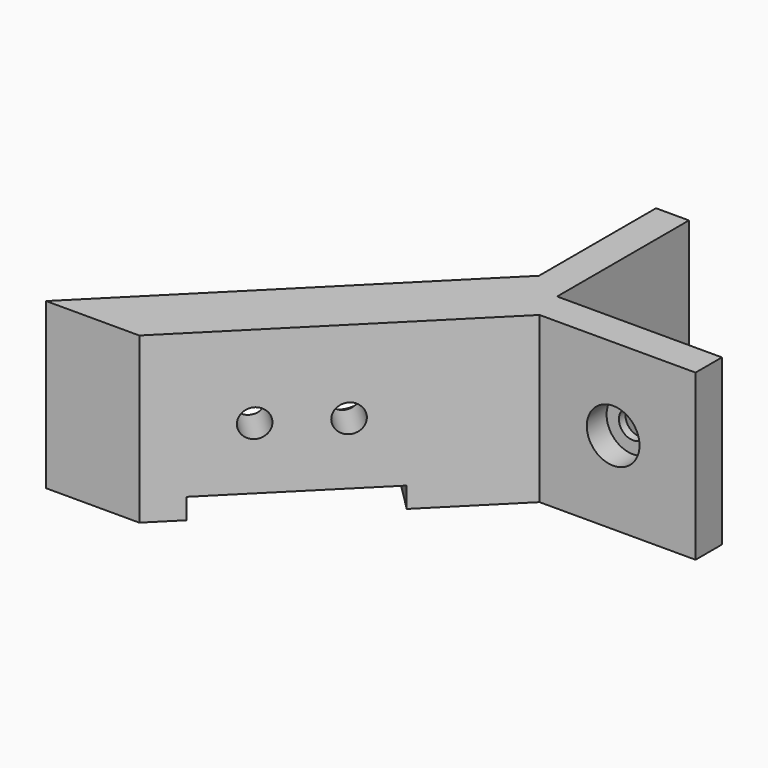
from build123d import *

# Parameters (mm, degrees)
PAD_DEPTH       = 20
SKETCH001_R     = 1.7
POCKET_DEPTH    = 5
SKETCH002_R     = 1.7
POCKET001_DEPTH = 5
SKETCH003_R     = 1.7
SKETCH003_W     = 21
SKETCH003_H     = 2.5
POCKET002_DEPTH = 9
SKETCH004_R     = 3.2
POCKET003_DEPTH = 3
SKETCH005_R     = 3.2
POCKET004_DEPTH = 3
SKETCH006_R     = 3.2
POCKET005_DEPTH = 3


with BuildPart() as part:
    # Sketch → Pad (new body)
    with BuildSketch(Plane.XY):
        Polygon((-2, 22), (2, 22), (2, 2), (22, 2), (22, -2), (3.065041, -2), (-23.92031, -28.985351), (-35.234019, -28.985351), (-2, 4.248668), align=None)
    extrude(amount=PAD_DEPTH)

    # Sketch001 (on Face2 of Pad) → Pocket (cut)
    with BuildSketch(Plane(origin=(-2, 0, 0), x_dir=(0, -1, 0), z_dir=(-1, 0, 0))):
        with Locations((-12, 10)):
            Circle(SKETCH001_R)
    extrude(amount=-POCKET_DEPTH, mode=Mode.SUBTRACT)

    # Sketch002 (on Face12 of Pocket) → Pocket001 (cut)
    with BuildSketch(Plane.XZ.offset(2)):
        with Locations((12, 10)):
            Circle(SKETCH002_R)
    extrude(amount=-POCKET001_DEPTH, mode=Mode.SUBTRACT)

    # Sketch003 (on Face1 of Pocket001) → Pocket002 (cut)
    with BuildSketch(Plane(origin=(-3.124334, 3.124334, 0), x_dir=(-0.707107, -0.707107, 0), z_dir=(-0.707107, 0.707107, 0))):
        with Locations((17.409952, 10)):
            Circle(SKETCH003_R)
        with Locations((26.409952, 10)):
            Circle(SKETCH003_R)
        with Locations((22.409952, 1.25)):
            Rectangle(SKETCH003_W, SKETCH003_H)
    extrude(amount=-POCKET002_DEPTH, mode=Mode.SUBTRACT)

    # Sketch004 (on Face7 of Pocket002) → Pocket003 (cut)
    with BuildSketch(Plane(origin=(-2, 0, 0), x_dir=(0, -1, 0), z_dir=(-1, 0, 0))):
        with Locations((-12, 10)):
            Circle(SKETCH004_R)
    extrude(amount=-POCKET003_DEPTH, mode=Mode.SUBTRACT)

    # Sketch005 (on Face13 of Pocket003) → Pocket004 (cut)
    with BuildSketch(Plane.XZ.offset(2)):
        with Locations((12, 10)):
            Circle(SKETCH005_R)
    extrude(amount=-POCKET004_DEPTH, mode=Mode.SUBTRACT)

    # Sketch006 (on Face1 of Pocket004) → Pocket005 (cut)
    with BuildSketch(Plane(origin=(-3.124334, 3.124334, 0), x_dir=(-0.707107, -0.707107, 0), z_dir=(-0.707107, 0.707107, 0))):
        with Locations((17.409955, 10.000001)):
            Circle(SKETCH006_R)
        with Locations((26.368249, 9.834363)):
            Circle(SKETCH006_R)
    extrude(amount=-POCKET005_DEPTH, mode=Mode.SUBTRACT)


solid = part.part
